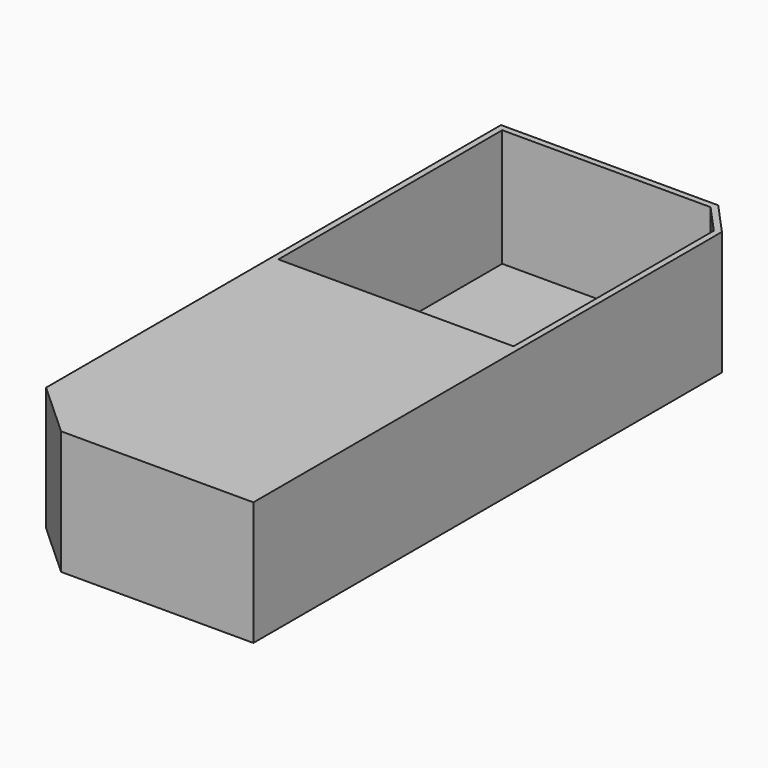
from build123d import *

# Parameters (mm, degrees)
F1_DEPTH = 31.75
F3_DEPTH = 60.325
F5_DEPTH = 3.175


with BuildPart() as f1:
    # F0 (on Top) → F1 (new body, symmetric)
    with BuildSketch(Plane.XY):
        Polygon((63.5, 141.6507737828), (47.9251928627, 158.75), (-63.5, 158.75), (-63.5, -132.9134553671), (-35.1417474449, -158.75), (63.5, -158.75), align=None)
    extrude(amount=F1_DEPTH, both=True)

    # F2 (on face) → F3 (cut)
    with BuildSketch(Plane.XY.offset(31.75)):
        Polygon((-60.325, -131.5109922598), (-33.9122881347, -155.575), (60.325, -155.575), (60.325, 140.4215420307), (46.5224932469, 155.575), (-60.325, 155.575), align=None)
    extrude(amount=-F3_DEPTH, mode=Mode.SUBTRACT)

    # F4 (on face) → F5 (join)
    with BuildSketch(Plane.XY.offset(31.75)):
        Polygon((60.325, 12.0320038701), (-60.325, 12.0320038701), (-60.325, -131.5109922598), (-33.9122881347, -155.575), (60.325, -155.575), align=None)
    extrude(amount=-F5_DEPTH)


solid = f1.part
